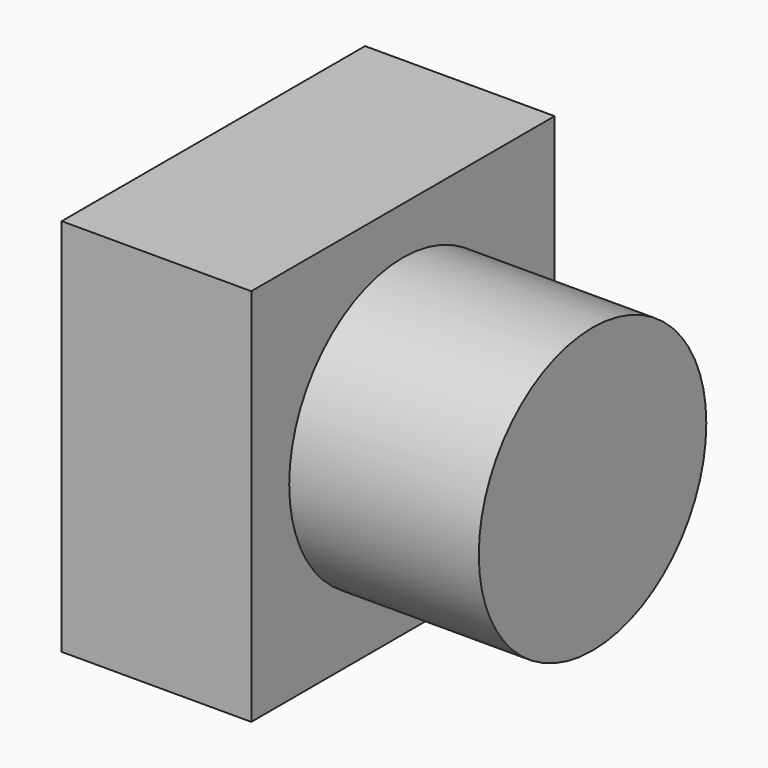
from build123d import *

# Parameters (mm, degrees)
F0_W     = 20
F0_H     = 20
F1_DEPTH = 10
F2_R     = 7.5
F3_DEPTH = 10


with BuildPart() as f1:
    # F0 (on Right) → F1 (new body)
    with BuildSketch(Plane.YZ):
        Rectangle(F0_W, F0_H)
    extrude(amount=F1_DEPTH)

    # F2 (on face) → F3 (join)
    with BuildSketch(Plane.YZ.offset(10)):
        Circle(F2_R)
    extrude(amount=F3_DEPTH)


solid = f1.part
